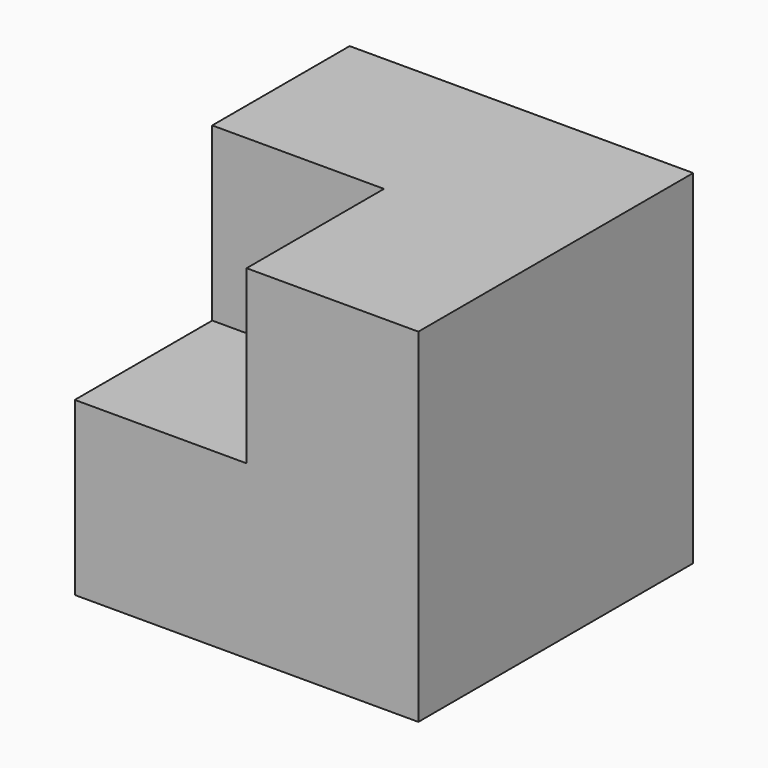
from build123d import *

# Parameters (mm, degrees)
F0_W      = 50.8
F0_H      = 50.8
F1_DEPTH  = 25.4
F1_FACE_W = 50.8
F1_FACE_H = 50.8
F2_DEPTH  = 25.4
F3_W      = 25.4
F3_H      = 25.4
F4_DEPTH  = 25.4


with BuildPart() as f1:
    # F0 (on Front) → F1 (new body)
    with BuildSketch(Plane.XZ):
        with Locations((25.4, -25.4)):
            Rectangle(F0_W, F0_H)
    extrude(amount=F1_DEPTH)

    # F1_face (on face) → F2 (join)
    with BuildSketch(Plane(origin=(25.4, -25.4, -25.4), x_dir=(1, 0, 0), z_dir=(0, -1, 0))):
        Rectangle(F1_FACE_W, F1_FACE_H)
    extrude(amount=F2_DEPTH)

    # F3 (on face) → F4 (cut)
    with BuildSketch(Plane.XZ.offset(50.8)):
        with Locations((12.7, -12.7)):
            Rectangle(F3_W, F3_H)
        with Locations((12.7, -12.7)):
            Rectangle(F3_W, F3_H)
    extrude(amount=-F4_DEPTH, mode=Mode.SUBTRACT)


solid = f1.part
